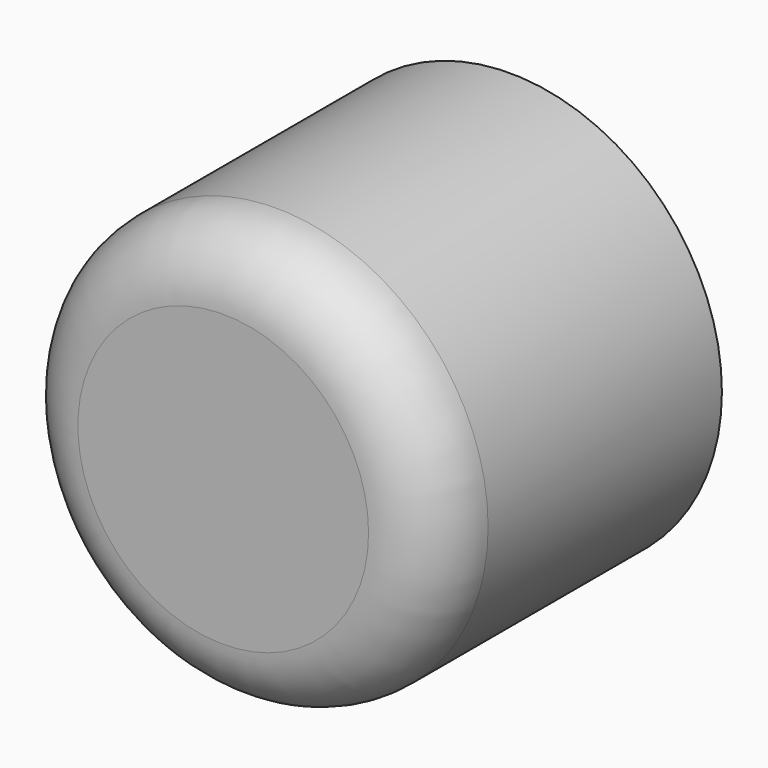
from build123d import *

# Parameters (mm, degrees)
F0_R      = 15.940718
F1_DEPTH  = 12
F1_FACE_R = 15.940718
F2_DEPTH  = 15
F3_R      = 14.322949
F4_DEPTH  = 25
F5_R      = 5
F6_R      = 4.914735
F7_DEPTH  = 15.941718


with BuildPart() as f1:
    # F0 (on Front) → F1 (new body)
    with BuildSketch(Plane.XZ):
        Circle(F0_R)
    extrude(amount=F1_DEPTH)

    # F1_face (on face) → F2 (join)
    with BuildSketch(Plane(origin=(0, 0, 0), x_dir=(1, 0, 0), z_dir=(0, 1, 0))):
        Circle(F1_FACE_R)
    extrude(amount=F2_DEPTH)

    # F3 (on face) → F4 (cut)
    with BuildSketch(Plane(origin=(0, 15, 0), x_dir=(-1, 0, 0), z_dir=(0, 1, 0))):
        Circle(F3_R)
    extrude(amount=-F4_DEPTH, mode=Mode.SUBTRACT)

    # F5
    f5_edges = [f1.edges().sort_by_distance(p)[0] for p in [
        (-15.940718, -12, 0),
    ]]
    fillet(f5_edges, radius=F5_R)

    # F6 (on Right) → F7 (cut, through all)
    with BuildSketch(Plane.YZ):
        with Locations((0.894999, 0)):
            Circle(F6_R)
    extrude(amount=-F7_DEPTH, mode=Mode.SUBTRACT)


solid = f1.part
